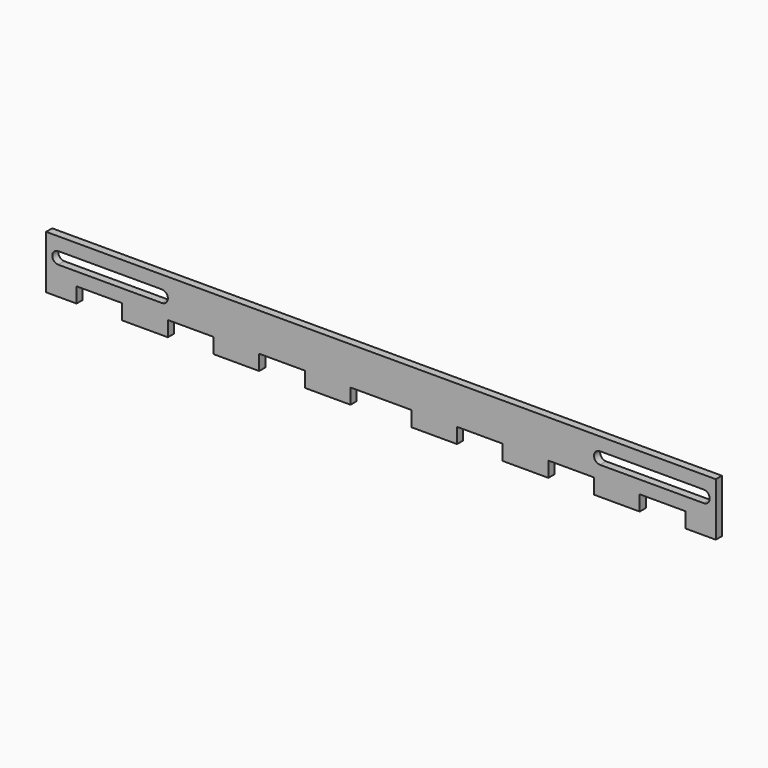
from build123d import *

# Parameters (mm, degrees)
F1_DEPTH = 3.175


with BuildPart() as f1:
    # F0 (on Front) → F1 (new body)
    with BuildSketch(Plane.XZ):
        Polygon((-178.387504, -7.9375), (-165.687504, -7.9375), (-165.687504, -1.5875), (-146.637504, -1.5875), (-146.637504, -7.9375), (-127.587504, -7.9375), (-127.587504, -1.5875), (-108.537504, -1.5875), (-108.537504, -7.9375), (-89.487504, -7.9375), (-89.487504, -1.5875), (-70.437504, -1.5875), (-70.437504, -7.9375), (-51.387504, -7.9375), (-51.387504, -1.5875), (-25.987504, -1.5875), (-25.987504, -7.9375), (-6.937504, -7.9375), (-6.937504, -1.5875), (12.112496, -1.5875), (12.112496, -7.9375), (31.162496, -7.9375), (31.162496, -1.5875), (50.212496, -1.5875), (50.212496, -7.9375), (69.262496, -7.9375), (69.262496, -1.5875), (88.312496, -1.5875), (88.312496, -7.9375), (101.012496, -7.9375), (101.012496, 14.2875), (-178.387504, 14.2875), align=None)
        with BuildLine():
            Line((-173.307504, 8.85), (-130.087504, 8.85))
            ThreePointArc((-130.087504, 8.85), (-127.587504, 6.35), (-130.087504, 3.85))
            Line((-130.087504, 3.85), (-173.307504, 3.85))
            ThreePointArc((-173.307504, 3.85), (-175.807504, 6.35), (-173.307504, 8.85))
        make_face(mode=Mode.SUBTRACT)
        with BuildLine():
            ThreePointArc((52.712496, 3.85), (50.212496, 6.35), (52.712496, 8.85))
            Line((52.712496, 8.85), (95.932496, 8.85))
            ThreePointArc((95.932496, 8.85), (98.432496, 6.35), (95.932496, 3.85))
            Line((95.932496, 3.85), (52.712496, 3.85))
        make_face(mode=Mode.SUBTRACT)
    extrude(amount=F1_DEPTH)


solid = f1.part
